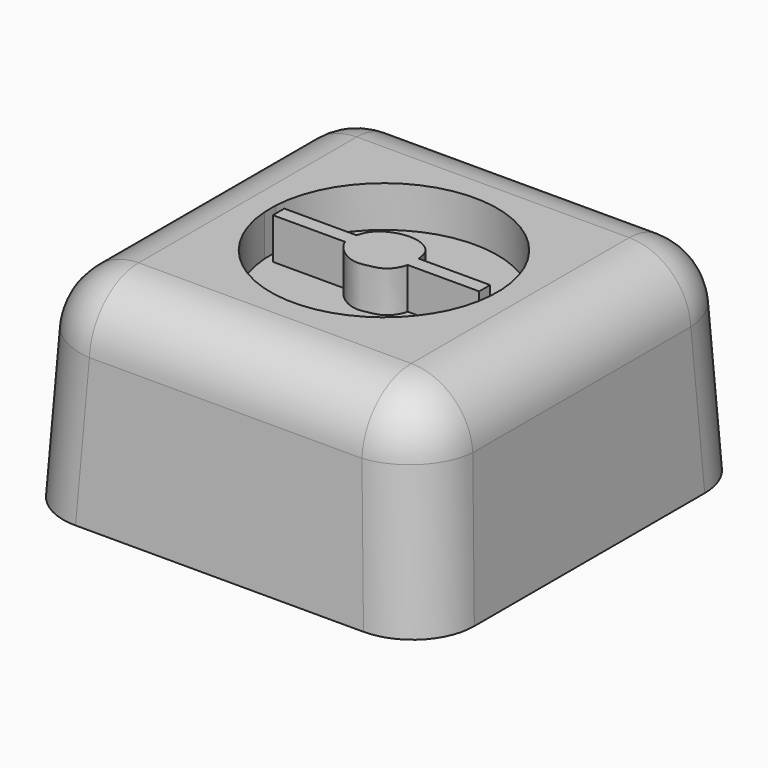
from build123d import *

# Parameters (mm, degrees)
F0_W     = 20
F0_H     = 20
F1_DEPTH = 10
F1_TAPER = 3
F2_R     = 3
F4_DEPTH = 2


with BuildPart() as f1:
    # F0 (on Top) → F1 (new body)
    with BuildSketch(Plane.XY):
        Rectangle(F0_W, F0_H)
    extrude(amount=F1_DEPTH, taper=F1_TAPER)

    # F2
    f2_edges = [f1.edges().sort_by_distance(p)[0] for p in [
        (0, 9.475922, 10),
        (9.737961, 9.737961, 5),
        (9.475922, 0, 10),
        (9.737961, -9.737961, 5),
        (0, -9.475922, 10),
        (-9.475922, 0, 10),
        (-9.737961, -9.737961, 5),
        (-9.737961, 9.737961, 5),
    ]]
    fillet(f2_edges, radius=F2_R)

    # F3 (on face) → F4 (cut)
    with BuildSketch(Plane.XY.offset(10)):
        with BuildLine():
            ThreePointArc((5.5115809634, 0.2857532818), (0.0129202811, 5.5189684471), (-5.5101826217, 0.3115559812))
            Line((-5.5101826217, 0.3115559812), (-5.0968159921, 0.3115559812))
            Line((-5.0968159921, 0.3115559812), (-1.5841760834, 0.3115559812))
            add(Edge.make_bspline(
                [(-1.5841760834, 0.3115559812), (-1.5146037038, 0.5837301371), (-1.2273483423, 1.2298845271), (0.2804225775, 1.6685983953), (1.3624047254, 1.0479713111), (1.4321026561, 0.5130518001), (1.4605487231, 0.2857532818)],
                knots=[0, 0, 0, 0, 0.0939716444, 0.212909057, 0.3170188857, 0.399881643, 0.399881643, 0.399881643, 0.399881643], degree=3))
            Line((1.4605487231, 0.2857532818), (4.9382173456, 0.2857532818))
            Line((4.9382173456, 0.2857532818), (5.5115809634, 0.2857532818))
        make_face()
        with BuildLine():
            Line((-5.0968159921, -0.3829301172), (-5.5056828986, -0.3829301172))
            ThreePointArc((-5.5056828986, -0.3829301172), (0, -5.5189835707), (5.5056828986, -0.3829301172))
            Line((5.5056828986, -0.3829301172), (4.9382173456, -0.3829301172))
            Line((4.9382173456, -0.3829301172), (1.4605487231, -0.3829301172))
            add(Edge.make_bspline(
                [(1.4605487231, -0.3829301172), (1.400668735, -0.6466191855), (1.09179653, -1.2105707709), (0.3230563372, -1.3669788929), (-0.3039180378, -1.4893536378), (-1.0857394106, -1.1379114959), (-1.4961255451, -0.6391379868), (-1.5841760834, -0.3829301172)],
                knots=[0.480759332, 0.480759332, 0.480759332, 0.480759332, 0.5717887242, 0.6570378834, 0.7350044671, 0.8245681269, 0.917576654, 0.917576654, 0.917576654, 0.917576654], degree=3))
            Line((-1.5841760834, -0.3829301172), (-5.0968159921, -0.3829301172))
        make_face()
        Polygon((-5.5101826217, 0.3115559812), (-5.5056828986, -0.3829301172), (-5.0968159921, -0.3829301172), (-5.0968159921, 0.3115559812), align=None)
        Polygon((4.9382173456, -0.3829301172), (5.5056828986, -0.3829301172), (5.5115809634, 0.2857532818), (4.9382173456, 0.2857532818), align=None)
    extrude(amount=-F4_DEPTH, mode=Mode.SUBTRACT)


solid = f1.part
